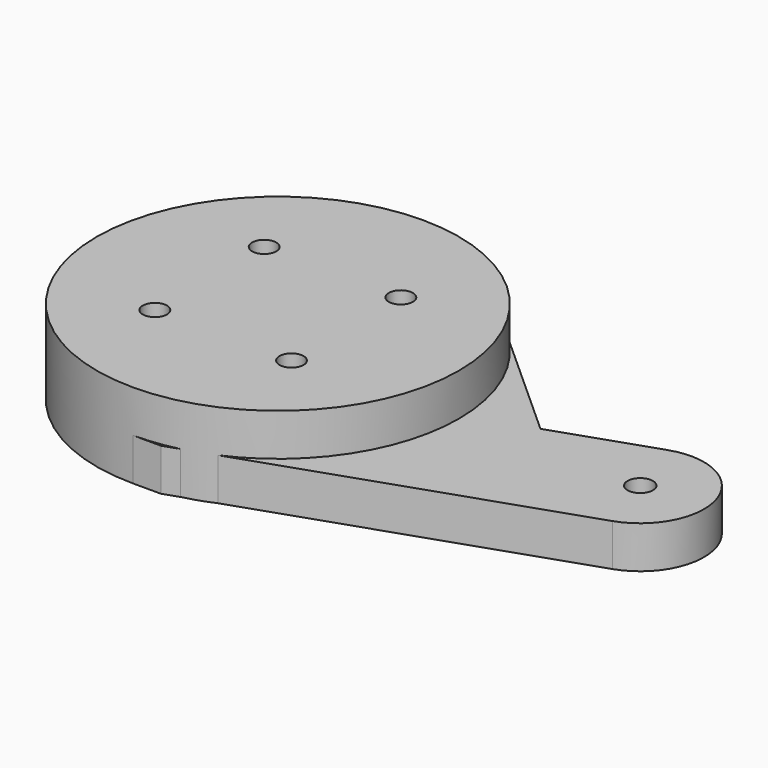
from build123d import *

# Parameters (mm, degrees)
SKETCH_R     = 1.05
PAD_DEPTH    = 3.5
SKETCH001_R  = 15
PAD001_DEPTH = 7
SKETCH002_R  = 1
POCKET_DEPTH = 10


with BuildPart() as body:
    # Sketch → Pad (new body)
    with BuildSketch(Plane.XY):
        with BuildLine():
            ThreePointArc((0, 15), (-14.003706, -5.375519), (10.036959, -11.147172))
            Line((10.036959, -11.147172), (20, -2.17641))
            Line((20, -2.17641), (28.298795, -5))
            ThreePointArc((28.298795, -5), (35, -1.701205), (31.701205, 5))
            Line((2.310268, 15), (31.701205, 5))
            Line((0, 15), (2.310268, 15))
        make_face()
        with Locations((30, 0)):
            Circle(SKETCH_R, mode=Mode.SUBTRACT)
    extrude(amount=PAD_DEPTH)

    # Sketch001 → Pad001 (join)
    with BuildSketch(Plane.XY):
        Circle(SKETCH001_R)
    extrude(amount=PAD001_DEPTH)

    # Sketch002 → Pocket (cut)
    with BuildSketch(Plane.XY):
        with Locations((-5.656854, 5.656854)):
            Circle(SKETCH002_R)
        with Locations((5.656854, 5.656854)):
            Circle(SKETCH002_R)
        with Locations((5.656854, -5.656854)):
            Circle(SKETCH002_R)
        with Locations((-5.656854, -5.656854)):
            Circle(SKETCH002_R)
    extrude(amount=POCKET_DEPTH, mode=Mode.SUBTRACT)


with BuildPart() as part_mirroring:
    # Part__Mirroring: instance of Body
    add(body.part.mirror(Plane(origin=(0, 0, 0), x_dir=(1, 0, 0), z_dir=(0, 1, 0))))


solid = part_mirroring.part
